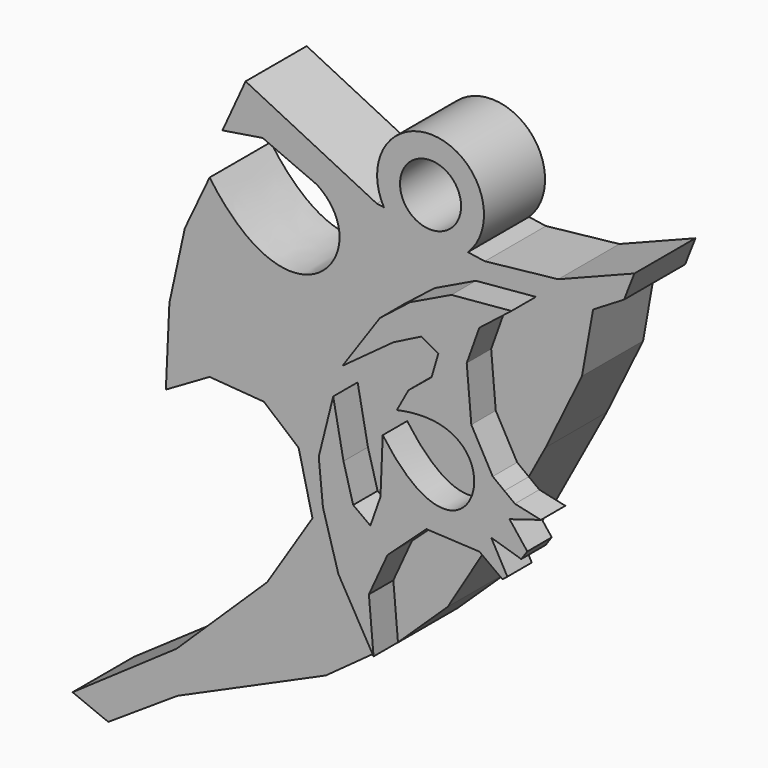
from build123d import *

# Parameters (mm, degrees)
F1_DEPTH = 5
F3_DEPTH = 2
F4_R     = 3.5
F5_DEPTH = 5
F6_R     = 2
F7_DEPTH = 5000


with BuildPart() as f1:
    # F0 (on Front) → F1 (new body)
    with BuildSketch(Plane.XZ):
        with BuildLine():
            Line((19.9153833091, -4.2498749681), (11.3317733631, 0))
            Line((11.3317733631, 0), (9.8158549517, -3.3205298241))
            Line((9.8158549517, -3.3205298241), (12.4476579949, -2.8994414024))
            Line((12.4476579949, -2.8994414024), (16.0058550537, -4.4364142232))
            add(Edge.make_bspline(
                [(16.0058550537, -4.4364142232), (20.2167406678, -7.2366520762), (14.6583728492, -14.2898829654), (8.973678574, -6.310257595)],
                knots=[0, 0, 0, 0, 7.2775541924, 7.2775541924, 7.2775541924, 7.2775541924], degree=3))
            Line((8.973678574, -6.310257595), (7.3524885811, -9.7631821409))
            Line((7.3524885811, -9.7631821409), (6.3418764621, -14.3951550126))
            Line((6.3418764621, -14.3951550126), (6.1102770269, -19.4692704827))
            Line((6.1102770269, -19.4692704827), (8.973678574, -17.8059712052))
            Line((8.973678574, -17.8059712052), (12.5318756327, -18.0796794593))
            Line((12.5318756327, -18.0796794593), (14.805752784, -19.9956316501))
            Line((14.805752784, -19.9956316501), (15.7110933214, -23.7643718719))
            Line((15.7110933214, -23.7643718719), (12.7424206585, -28.4173991531))
            Line((12.7424206585, -28.4173991531), (6.8050744012, -34.1863110662))
            Line((6.8050744012, -34.1863110662), (0, -38.9025583863))
            Line((0, -38.9025583863), (2.3386615794, -39.8540049791))
            Line((2.3386615794, -39.8540049791), (6.8705515005, -36.8744730949))
            Line((6.8705515005, -36.8744730949), (16.5853220969, -32.5428880751))
            Line((16.5853220969, -32.5428880751), (21.242402494, -29.1627496481))
            Line((21.242402494, -29.1627496481), (24.5724655688, -25.9829144925))
            Line((24.5724655688, -25.9829144925), (27.7022235096, -20.8000354469))
            Line((27.7022235096, -20.8000354469), (30.9822093695, -14.7157851607))
            Line((30.9822093695, -14.7157851607), (33.3608239889, -9.8333628848))
            Line((33.3608239889, -9.8333628848), (34.0869277716, -5.7521588169))
            Line((34.0869277716, -5.7521588169), (36.115013063, -4.5252935961))
            Line((36.115013063, -4.5252935961), (36.7910414934, -2.7976669371))
            Line((36.7910414934, -2.7976669371), (31.8084657192, -4.7506359406))
            Line((31.8084657192, -4.7506359406), (27.0011555403, -5.2764355205))
            Line((27.0011555403, -5.2764355205), (19.9153833091, -4.2498749681))
        make_face()
    extrude(amount=F1_DEPTH)

    # F2 (on face) → F3 (join)
    with BuildSketch(Plane.XZ.offset(5)):
        with BuildLine():
            Line((21.7291433364, -9.4480654225), (19.2754138261, -13.0034713075))
            Line((19.2754138261, -13.0034713075), (22.6067081094, -10.5641065165))
            Line((22.6067081094, -10.5641065165), (24.4384426624, -9.6377115697))
            Line((24.4384426624, -9.6377115697), (25.5543254316, -10.2482894436))
            Line((25.5543254316, -10.2482894436), (25.1121837646, -11.7642078549))
            Line((25.1121837646, -11.7642078549), (23.5962662846, -13.0064180121))
            Line((23.5962662846, -13.0064180121), (22.8383075446, -14.3960108981))
            add(Edge.make_bspline(
                [(21.911913529, -16.1435268819), (27.8071500361, -24.3758074939), (31.3442908227, -12.5221665949), (22.8383075446, -14.3960108981)],
                knots=[0, 0, 0, 0, 1.9778821972, 1.9778821972, 1.9778821972, 1.9778821972], degree=3))
            Line((21.911913529, -16.1435268819), (21.7645317316, -19.7438336909))
            Line((21.7645317316, -19.7438336909), (21.1032004239, -21.6240121639))
            Line((21.1032004239, -21.6240121639), (19.9749078602, -20.8000354469))
            Line((19.9749078602, -20.8000354469), (19.3432737142, -18.4805691242))
            Line((19.3432737142, -18.4805691242), (18.669532612, -14.9644799531))
            Line((18.669532612, -14.9644799531), (17.7220832556, -18.7542755157))
            Line((17.7220832556, -18.7542755157), (17.9957915097, -21.5755682439))
            Line((17.9957915097, -21.5755682439), (19.0064031631, -25.0916555524))
            Line((19.0064031631, -25.0916555524), (21.3110515224, -29.0971975582))
            Line((21.3110515224, -29.0971975582), (21.0065729916, -25.6180167198))
            Line((21.0065729916, -25.6180167198), (22.227730602, -22.9441039264))
            Line((22.227730602, -22.9441039264), (24.7753150761, -20.6281188875))
            Line((24.7753150761, -20.6281188875), (27.7164391152, -20.7736660335))
            Line((27.7164391152, -20.7736660335), (29.8788421939, -16.7624897322))
            Line((29.8788421939, -16.7624897322), (29.1153732687, -16.1833055317))
            Line((29.1153732687, -16.1833055317), (27.7132410556, -13.6544601992))
            Line((27.7132410556, -13.6544601992), (27.4127833545, -10.1992078125))
            Line((27.4127833545, -10.1992078125), (28.2366167336, -7.8957052901))
            Line((28.2366167336, -7.8957052901), (30.3422380239, -6.2431930564))
            Line((30.3422380239, -6.2431930564), (26.4112614095, -6.5937256441))
            Line((26.4112614095, -6.5937256441), (23.707151413, -7.8957052901))
            Line((23.707151413, -7.8957052901), (21.7291433364, -9.4480654225))
        make_face()
        Polygon((30.567580834, -17.2849819064), (29.8788421939, -16.7624897322), (27.7164391152, -20.7736660335), (28.2492954284, -20.8000354469), (29.7553811609, -21.899909378), (30.0746022613, -21.6493815286), (29.0152207017, -19.7387114167), (30.9822093695, -20.3396249563), (31.3804323032, -19.7688815121), (30.2170477808, -18.2865038514), (32.2701707482, -17.6605526358), align=None)
    extrude(amount=F3_DEPTH)

    # F4 (on Front) → F5 (join)
    with BuildSketch(Plane.XZ):
        with Locations((23.4437491745, -2.6102589909)):
            Circle(F4_R)
    extrude(amount=F5_DEPTH)

    # F6 (on face) → F7 (cut)
    with BuildSketch(Plane.XZ.offset(5)):
        with Locations((23.4437491745, -2.6102589909)):
            Circle(F6_R)
    extrude(amount=-F7_DEPTH, mode=Mode.SUBTRACT)


solid = f1.part
